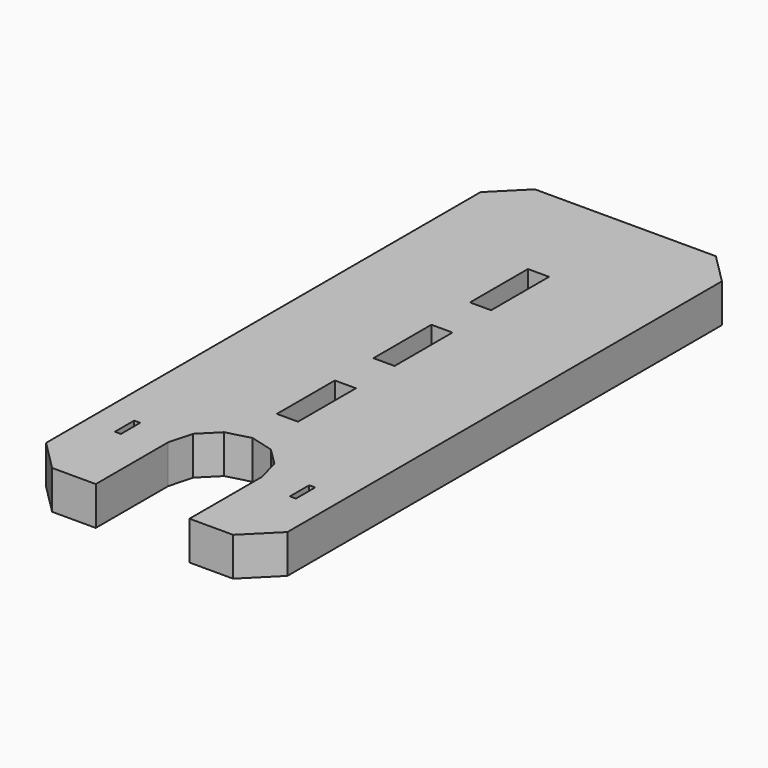
from build123d import *

# Parameters (mm, degrees)
F0_W     = 40
F0_H     = 100
F1_DEPTH = 6.4
F2_SIZE  = 5
F4_DEPTH = 6.401
F5_W     = 1
F5_H     = 4
F6_DEPTH = 6.401
F7_W     = 3.5
F7_H     = 12
F8_DEPTH = 6.401


with BuildPart() as f1:
    # F0 (on Top) → F1 (new body)
    with BuildSketch(Plane.XY):
        Rectangle(F0_W, F0_H)
    extrude(amount=F1_DEPTH)

    # F2
    f2_edges = [f1.edges().sort_by_distance(p)[0] for p in [
        (-20, -50, 3.2),
        (20, -50, 3.2),
        (20, 50, 3.2),
        (-20, 50, 3.2),
    ]]
    chamfer(f2_edges, length=F2_SIZE)

    # F3 (on face) → F4 (cut, through all)
    with BuildSketch(Plane.XY.offset(6.4)):
        Polygon((3.882286, -41.724316), (6.724316, -38.882286), (7.764571, -35), (6.724316, -31.117714), (3.882286, -28.275684), (0, -27.235429), (-3.882286, -28.275684), (-6.724316, -31.117714), (-7.764571, -35), (-6.724316, -38.882286), (-3.882286, -41.724316), (0, -42.764571), align=None)
        Polygon((7.764571, -35), (6.724316, -38.882286), (3.882286, -41.724316), (0, -42.764571), (-3.882286, -41.724316), (-6.724316, -38.882286), (-7.764571, -35), (-7.764571, -50), (7.764571, -50), align=None)
    extrude(amount=-F4_DEPTH, mode=Mode.SUBTRACT)

    # F5 (on face) → F6 (cut, through all)
    with BuildSketch(Plane.XY.offset(6.4)):
        with Locations((14.5, -35)):
            Rectangle(F5_W, F5_H)
        with Locations((-14.5, -35)):
            Rectangle(F5_W, F5_H)
    extrude(amount=-F6_DEPTH, mode=Mode.SUBTRACT)

    # F7 (on face) → F8 (cut, through all)
    with BuildSketch(Plane.XY.offset(6.4)):
        with Locations((0, 6)):
            Rectangle(F7_W, F7_H)
        with Locations((0, -14)):
            Rectangle(F7_W, F7_H)
        with Locations((0, 26)):
            Rectangle(F7_W, F7_H)
    extrude(amount=-F8_DEPTH, mode=Mode.SUBTRACT)


solid = f1.part
